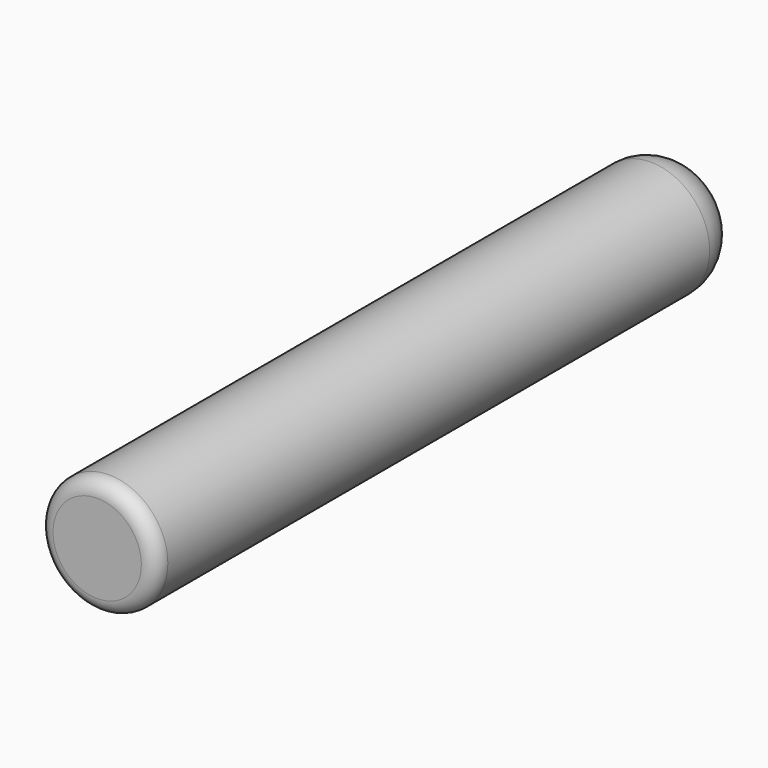
from build123d import *

# Parameters (mm, degrees)
F0_R     = 40
F1_DEPTH = 500
F2_R     = 30
F3_R     = 10


with BuildPart() as f1:
    # F0 (on Front) → F1 (new body)
    with BuildSketch(Plane.XZ):
        Circle(F0_R)
    extrude(amount=-F1_DEPTH)

    # F2
    f2_edges = [f1.edges().sort_by_distance(p)[0] for p in [
        (-40, 500, 0),
    ]]
    fillet(f2_edges, radius=F2_R)

    # F3
    f3_edges = [f1.edges().sort_by_distance(p)[0] for p in [
        (-40, 0, 0),
    ]]
    fillet(f3_edges, radius=F3_R)


solid = f1.part
